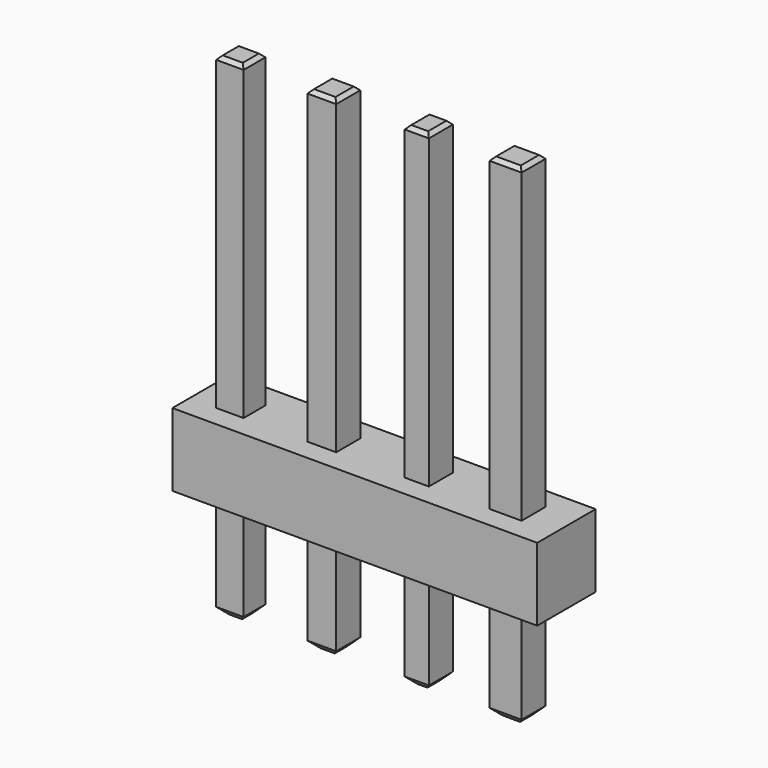
from build123d import *

# Parameters (mm, degrees)
F0_W          = 10
F0_H          = 2
F1_DEPTH      = 2
F2_W          = 0.75
F2_H          = 0.75
F2_W_2        = 0.787472
F2_H_2        = 0.823894
F2_W_3        = 0.66187
F2_W_4        = 0.875056
F3_DEPTH      = 8.5
F3_DEPTH_BACK = 5
F4_SIZE       = 0.1
F5_SIZE       = 0.1
F6_SIZE       = 0.1
F7_SIZE       = 0.1
F8_SIZE       = 0.2


with BuildPart() as f1:
    # F0 (on Top) → F1 (new body)
    with BuildSketch(Plane.XY):
        Rectangle(F0_W, F0_H)
    extrude(amount=F1_DEPTH)

    # F2 (on face) → F3 (join, two sides)
    with BuildSketch(Plane.XY.offset(2)) as f3_sk:
        with Locations((-3.895019, -0.036947)):
            Rectangle(F2_W, F2_H)
        with Locations((-1.373755, 0)):
            Rectangle(F2_W_2, F2_H_2)
        with Locations((1.229046, 0)):
            Rectangle(F2_W_3, F2_H_2)
        with Locations((3.662453, 0)):
            Rectangle(F2_W_4, F2_H_2)
    extrude(amount=F3_DEPTH)
    extrude(f3_sk.sketch, amount=-F3_DEPTH_BACK)

    # F4
    f4_edges = [f1.edges().sort_by_distance(p)[0] for p in [
        (-3.895019, -0.411947, 10.5),
        (-3.520019, -0.036947, 10.5),
        (-3.895019, 0.338053, 10.5),
        (-4.270019, -0.036947, 10.5),
    ]]
    chamfer(f4_edges, length=F4_SIZE)

    # F5
    f5_edges = [f1.edges().sort_by_distance(p)[0] for p in [
        (-1.373755, -0.411947, 10.5),
        (-0.980019, 0, 10.5),
        (-1.373755, 0.411947, 10.5),
        (-1.767491, 0, 10.5),
    ]]
    chamfer(f5_edges, length=F5_SIZE)

    # F6
    f6_edges = [f1.edges().sort_by_distance(p)[0] for p in [
        (0.898111, 0, 10.5),
        (1.229046, -0.411947, 10.5),
        (1.559981, 0, 10.5),
        (1.229046, 0.411947, 10.5),
    ]]
    chamfer(f6_edges, length=F6_SIZE)

    # F7
    f7_edges = [f1.edges().sort_by_distance(p)[0] for p in [
        (3.224925, 0, 10.5),
        (3.662453, -0.411947, 10.5),
        (4.099981, 0, 10.5),
        (3.662453, 0.411947, 10.5),
    ]]
    chamfer(f7_edges, length=F7_SIZE)

    # F8
    f8_edges = [f1.edges().sort_by_distance(p)[0] for p in [
        (3.224925, 0, -3),
        (3.662453, -0.411947, -3),
        (4.099981, 0, -3),
        (3.662453, 0.411947, -3),
        (0.898111, 0, -3),
        (1.229046, -0.411947, -3),
        (1.559981, 0, -3),
        (1.229046, 0.411947, -3),
        (-1.373755, 0.411947, -3),
        (-1.767491, 0, -3),
        (-1.373755, -0.411947, -3),
        (-0.980019, 0, -3),
        (-3.520019, -0.036947, -3),
        (-3.895019, 0.338053, -3),
        (-4.270019, -0.036947, -3),
        (-3.895019, -0.411947, -3),
    ]]
    chamfer(f8_edges, length=F8_SIZE)


solid = f1.part
